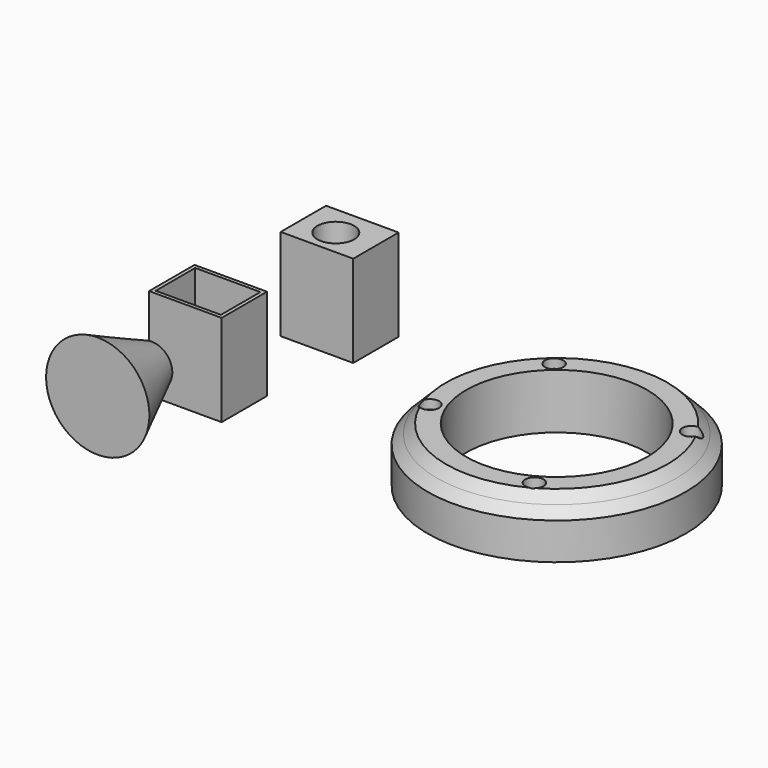
from build123d import *

# Parameters (mm, degrees)
F0_R     = 35.1280043559
F0_R_2   = 24.660722934
F1_DEPTH = 15
F2_SIZE  = 5
F3_T     = -2.5
F0_W     = 19.7548493743
F0_H     = 15.4446987435
F4_DEPTH = 25
F5_T     = -1
F7_D     = 10
F9_D     = 5


with BuildPart() as f1:
    # F0 (on Top) → F1 (new body)
    with BuildSketch(Plane.XY):
        with Locations((31.0689881444, 26.8486309797)):
            Circle(F0_R)
        with Locations((31.0689881444, 26.8486309797)):
            Circle(F0_R_2, mode=Mode.SUBTRACT)
    extrude(amount=F1_DEPTH)

    # F2
    f2_edges = [f1.edges().sort_by_distance(p)[0] for p in [
        (-4.059016, 26.848631, 15),
    ]]
    chamfer(f2_edges, length=F2_SIZE)

    # F3
    f3_openings = [f1.faces().sort_by_distance(p)[0] for p in [
        (-1.559016, 26.848631, 12.5),
    ]]
    offset(amount=F3_T, openings=f3_openings)

    # F9 (through all)
    with Locations(Plane.XY.offset(15)):
        with Locations((55.7226426899, 41.914395988), (13.4591273963, 47.9640252888), (4.5937690884, 16.8129019439), (44.4176457822, 2.5516494643)):
            Hole(F9_D / 2)


with BuildPart() as f4:
    # F0 (on Top) → F4 (new body)
    with BuildSketch(Plane.XY):
        with Locations((-52.7993179858, 13.0202402361)):
            Rectangle(F0_W, F0_H)
    extrude(amount=F4_DEPTH)

    # F5
    f5_openings = [f4.faces().sort_by_distance(p)[0] for p in [
        (-52.799318, 13.02024, 25),
    ]]
    offset(amount=F5_T, openings=f5_openings)


with BuildPart() as f4b:
    # F0 (on Top) → F4, piece 2 (new body)
    with BuildSketch(Plane.XY):
        with Locations((-47.9759350419, 51.7777875066)):
            Rectangle(F0_W, F0_H)
    extrude(amount=F4_DEPTH)

    # F7 (through all)
    with Locations(Plane.XY.offset(25)):
        with Locations((-48.509132117, 51.1267594993)):
            Hole(F7_D / 2)


with BuildPart() as f10:
    # F6 (on face) → F10 (revolve)
    with BuildSketch(Plane.XY.offset(25)):
        Polygon((-40.9877710044, -20.8830051124), (-46.5582609177, -20.8830051124), (-55.048879236, -39.3000245094), (-40.9877710044, -39.3000245094), align=None)
    revolve(axis=Axis((-40.9877710044, -30.0915148109, 25), (0, -1, 0)))


solid = Compound([f1.part, f4.part, f4b.part, f10.part])
